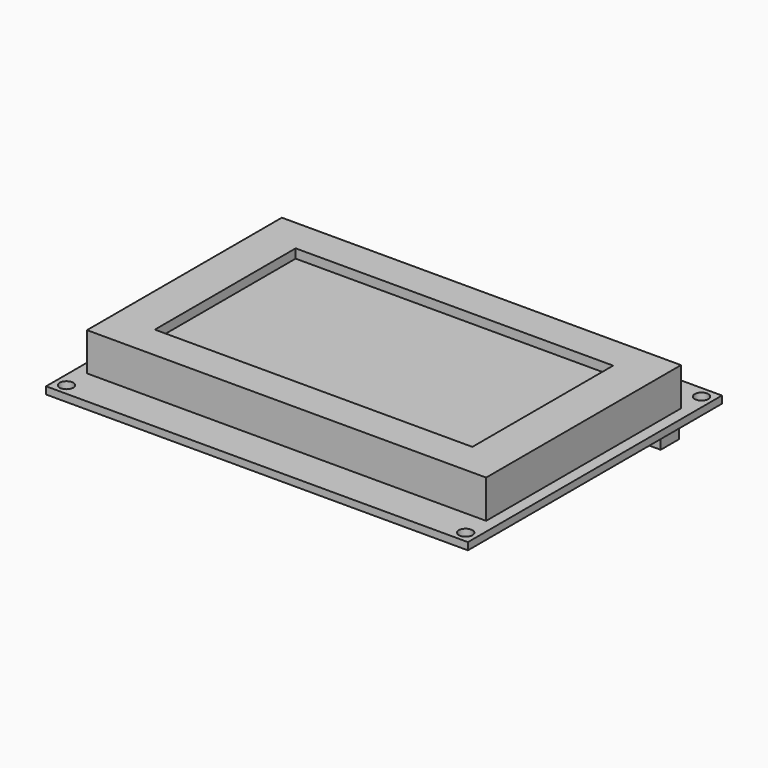
from build123d import *

# Parameters (mm, degrees)
SKETCH003_W     = 93
SKETCH003_H     = 70
PAD003_DEPTH    = 1.6
SKETCH_W        = 88
SKETCH_H        = 53.7
PAD_DEPTH       = 8.4
SKETCH004_W     = 70
SKETCH004_H     = 38.8
POCKET_DEPTH    = 2
SKETCH005_R     = 1.5
POCKET001_DEPTH = 1.601
SKETCH006_W     = 54
SKETCH006_H     = 5
PAD004_DEPTH    = 10
SKETCH007_W     = 54
SKETCH007_H     = 20
PAD005_DEPTH    = 1.6
SKETCH008_W     = 20
SKETCH008_H     = 15
PAD006_DEPTH    = 3


with BuildPart() as part:
    # Sketch003 → Pad003 (new body)
    with BuildSketch(Plane.XY):
        Rectangle(SKETCH003_W, SKETCH003_H)
    extrude(amount=PAD003_DEPTH)

    # Sketch (on DatumPlane) → Pad (join)
    with BuildSketch(Plane.XY.offset(1.6)):
        Rectangle(SKETCH_W, SKETCH_H)
    extrude(amount=PAD_DEPTH)

    # Sketch004 (on DatumPlane) → Pocket (cut)
    with BuildSketch(Plane.XY.offset(10)):
        Rectangle(SKETCH004_W, SKETCH004_H)
    extrude(amount=-POCKET_DEPTH, mode=Mode.SUBTRACT)

    # Sketch005 (on DatumPlane) → Pocket001 (cut, through all)
    with BuildSketch(Plane.XY.offset(1.6)):
        with Locations((-44, 32.5)):
            Circle(SKETCH005_R)
        with Locations((44, 32.5)):
            Circle(SKETCH005_R)
        with Locations((-44, -32.5)):
            Circle(SKETCH005_R)
        with Locations((44, -32.5)):
            Circle(SKETCH005_R)
    extrude(amount=-POCKET001_DEPTH, mode=Mode.SUBTRACT)

    # Sketch006 (on DatumPlane) → Pad004 (join)
    with BuildSketch(Plane(origin=(0, 0, 0), x_dir=(1, 0, 0), z_dir=(0, 0, -1))):
        with Locations((10, -32.5)):
            Rectangle(SKETCH006_W, SKETCH006_H)
    extrude(amount=PAD004_DEPTH)

    # Sketch007 (on DatumPlane) → Pad005 (join)
    with BuildSketch(Plane(origin=(0, 0, -4), x_dir=(1, 0, 0), z_dir=(0, 0, -1))):
        with Locations((10, -25)):
            Rectangle(SKETCH007_W, SKETCH007_H)
    extrude(amount=PAD005_DEPTH)

    # Sketch008 (on DatumPlane) → Pad006 (join)
    with BuildSketch(Plane(origin=(0, 0, -4), x_dir=(1, 0, 0), z_dir=(0, 0, -1))):
        with Locations((-20, -27.5)):
            Rectangle(SKETCH008_W, SKETCH008_H)
    extrude(amount=-PAD006_DEPTH)


solid = part.part
